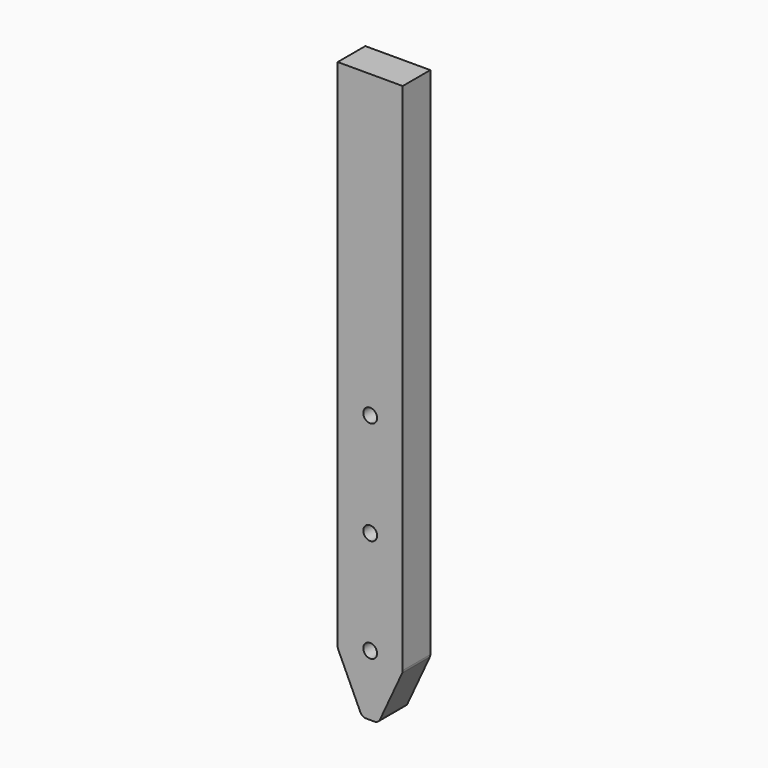
from build123d import *

# Parameters (mm, degrees)
F1_DEPTH = 17
F3_D     = 6.8


with BuildPart() as f1:
    # F0 (on Front) → F1 (new body)
    with BuildSketch(Plane.XZ):
        with BuildLine():
            Line((0, 159.4937804341), (-16, 159.4937804341))
            Line((-16, 159.4937804341), (-16, -93.8473090342))
            ThreePointArc((-16, -93.8473090342), (-15.9301565198, -94.4908793643), (-15.7238781535, -95.1044835666))
            Line((-15.7238781535, -95.1044835666), (-4.8043809851, -118.7633940983))
            ThreePointArc((-4.8043809851, -118.7633940983), (-3.697363432, -120.0332260555), (-2.0805028316, -120.5062195659))
            Line((-2.0805028316, -120.5062195659), (0, -120.5062195659))
            Line((0, -120.5062195659), (2.0805028316, -120.5062195659))
            ThreePointArc((2.0805028316, -120.5062195659), (3.697363432, -120.0332260555), (4.8043809851, -118.7633940983))
            Line((4.8043809851, -118.7633940983), (15.7238781535, -95.1044835666))
            ThreePointArc((15.7238781535, -95.1044835666), (15.9301565198, -94.4908793643), (16, -93.8473090342))
            Line((16, -93.8473090342), (16, 159.4937804341))
            Line((16, 159.4937804341), (0, 159.4937804341))
        make_face()
    extrude(amount=F1_DEPTH)

    # F3 (through all)
    with Locations(Plane.XZ.offset(17)):
        with Locations((0, 11.4937804341), (0, -39.5062195659), (0, -90.5062195659)):
            Hole(F3_D / 2)


solid = f1.part
